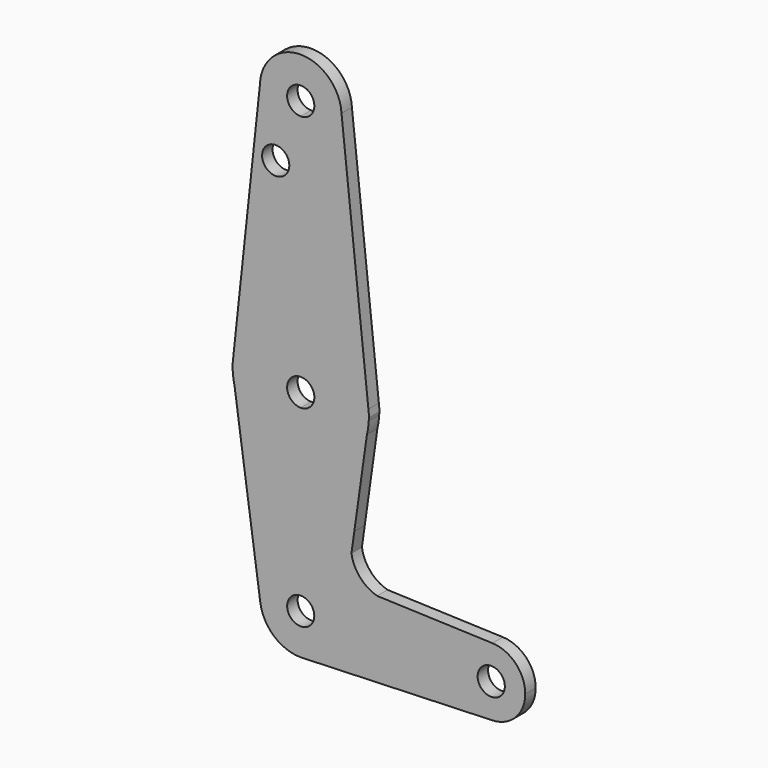
from build123d import *

# Parameters (mm, degrees)
F0_R     = 3.175
F1_DEPTH = 3.048


with BuildPart() as f1:
    # F0 (on Front) → F1 (new body)
    with BuildSketch(Plane.XZ):
        with BuildLine():
            ThreePointArc((-9.521768482, 60.109775595), (-6.822342257, 53.2147835566), (0, 50.3366829186))
            ThreePointArc((0, 50.3366829186), (6.7351920908, 53.1264908278), (9.525, 59.8616829186))
            ThreePointArc((9.525, 59.8616829186), (9.5212685047, 60.1282744826), (9.5100769424, 60.3946571678))
            ThreePointArc((9.5100769424, 60.3946571678), (-0.1425606912, 69.3856160057), (-9.521768482, 60.109775595))
        make_face()
        with BuildLine():
            ThreePointArc((3.175, 59.8616829186), (2.2450640303, 57.6166188883), (0, 56.6866829186))
            ThreePointArc((0, 56.6866829186), (-2.2450640303, 62.1067469488), (3.175, 59.8616829186))
        make_face(mode=Mode.SUBTRACT)
        with BuildLine():
            ThreePointArc((9.525, 59.8616829186), (6.7351920908, 53.1264908278), (0, 50.3366829186))
            Line((0, 50.3366829186), (0, 15.875))
            ThreePointArc((0, 15.875), (10.6120502723, 11.8067783082), (15.7850866092, 1.6872064905))
            Line((15.7850866092, 1.6872064905), (9.5100769424, 60.3946571678))
            ThreePointArc((9.5100769424, 60.3946571678), (9.5212685047, 60.1282744826), (9.525, 59.8616829186))
        make_face()
        with BuildLine():
            Line((0, 15.875), (0, 50.3366829186))
            ThreePointArc((0, 50.3366829186), (-6.822342257, 53.2147835566), (-9.521768482, 60.109775595))
            Line((-9.521768482, 60.109775595), (-15.7845502334, 1.6922171637))
            ThreePointArc((-15.7845502334, 1.6922171637), (-10.6101761891, 11.808462484), (0, 15.875))
        make_face()
        with Locations((-5.8420007117, 45.7200035453)):
            Circle(F0_R, mode=Mode.SUBTRACT)
        with BuildLine():
            ThreePointArc((15.7850866092, 1.6872064905), (10.6120502723, 11.8067783082), (0, 15.875))
            Line((0, 15.875), (0, 3.175))
            ThreePointArc((0, 3.175), (2.2450640303, 2.2450640303), (3.175, 0))
            ThreePointArc((3.175, 0), (2.2450640303, -2.2450640303), (0, -3.175))
            Line((0, -3.175), (0, -15.875))
            ThreePointArc((0, -15.875), (9.8507507088, -12.4490294992), (15.4497368395, -3.6498296658))
            Line((15.4497368395, -3.6498296658), (15.8561487715, -0.7734152414))
            ThreePointArc((15.8561487715, -0.7734152414), (15.8702864931, -0.3868224736), (15.875, 0))
            ThreePointArc((15.875, 0), (15.8525057155, 0.8448002958), (15.7850866092, 1.6872064905))
        make_face()
        with BuildLine():
            Line((0, 3.175), (0, 15.875))
            ThreePointArc((0, 15.875), (-10.6101761891, 11.808462484), (-15.7845502334, 1.6922171637))
            ThreePointArc((-15.7845502334, 1.6922171637), (-15.8683946878, 0.4579028636), (-15.8558659237, -0.7791924092))
            Line((-15.8558659237, -0.7791924092), (-15.4509817985, -3.644555729))
            ThreePointArc((-15.4509817985, -3.644555729), (-9.852875286, -12.4473480549), (0, -15.875))
            Line((0, -15.875), (0, -3.175))
            ThreePointArc((0, -3.175), (-3.175, 0), (0, 3.175))
        make_face()
        with BuildLine():
            Line((15.9654255085, 0), (15.7850866092, 1.6872064905))
            ThreePointArc((15.7850866092, 1.6872064905), (15.8525057155, 0.8448002958), (15.875, 0))
            ThreePointArc((15.875, 0), (15.8702864931, -0.3868224736), (15.8561487715, -0.7734152414))
            Line((15.8561487715, -0.7734152414), (15.9654255085, 0))
        make_face()
        with BuildLine():
            ThreePointArc((-15.8558659237, -0.7791924092), (-15.8683946878, 0.4579028636), (-15.7845502334, 1.6922171637))
            Line((-15.7845502334, 1.6922171637), (-15.9659680649, 0))
            Line((-15.9659680649, 0), (-15.8558659237, -0.7791924092))
        make_face()
        with BuildLine():
            Line((-15.4509817985, -3.644555729), (-15.8558659237, -0.7791924092))
            ThreePointArc((-15.8558659237, -0.7791924092), (-15.7188503178, -2.2211190167), (-15.4509817985, -3.644555729))
        make_face()
        with BuildLine():
            ThreePointArc((15.4497368395, -3.6498296658), (9.8507507088, -12.4490294992), (0, -15.875))
            Line((0, -15.875), (0, -35.3880759952))
            Line((0, -35.3880759952), (0, -41.7517314814))
            ThreePointArc((0, -41.7517314814), (2.2354081434, -42.6776678518), (3.1613445139, -44.9130759952))
            Line((3.1613445139, -44.9130759952), (9.525, -44.9130759952))
            Line((9.525, -44.9130759952), (36.5125, -44.9130759952))
            ThreePointArc((36.5125, -44.9130759952), (38.9380895153, -39.2014432113), (44.7324052746, -36.9806013807))
            Line((44.7324052746, -36.9806013807), (17.816256185, -36.0223553297))
            ThreePointArc((17.816256185, -36.0223553297), (13.8210029222, -33.4966577049), (11.8389221297, -29.2056726364))
            ThreePointArc((11.8389221297, -29.2056726364), (11.8327512172, -26.8281242675), (12.4973838852, -24.545354515))
            Line((12.4973838852, -24.545354515), (15.4497368395, -3.6498296658))
        make_face()
        with BuildLine():
            Line((0.6773435479, -35.4121902093), (0, -35.3880759952))
            ThreePointArc((0, -35.3880759952), (0.3388863295, -35.3941064578), (0.6773435479, -35.4121902093))
        make_face(mode=Mode.SUBTRACT)
        with BuildLine():
            Line((0, -35.3880759952), (0, -15.875))
            ThreePointArc((0, -15.875), (-9.852875286, -12.4473480549), (-15.4509817985, -3.644555729))
            Line((-15.4509817985, -3.644555729), (-9.4313101907, -46.2457474053))
            ThreePointArc((-9.4313101907, -46.2457474053), (-7.1909429208, -38.6667999119), (0, -35.3880759952))
        make_face()
        with BuildLine():
            ThreePointArc((15.4497368395, -3.6498296658), (15.718875865, -2.2209382121), (15.8561487715, -0.7734152414))
            Line((15.8561487715, -0.7734152414), (15.4497368395, -3.6498296658))
        make_face()
        with BuildLine():
            Line((0, -41.7517314814), (0, -35.3880759952))
            ThreePointArc((0, -35.3880759952), (-7.1909429208, -38.6667999119), (-9.4313101907, -46.2457474053))
            ThreePointArc((-9.4313101907, -46.2457474053), (-6.2462760834, -52.104018916), (0, -54.4380759952))
            Line((0, -54.4380759952), (0.6773435479, -54.4139617812))
            ThreePointArc((0.6773435479, -54.4139617812), (6.9705567315, -51.4043750835), (9.525, -44.9130759952))
            Line((9.525, -44.9130759952), (3.1613445139, -44.9130759952))
            ThreePointArc((3.1613445139, -44.9130759952), (-2.2354081434, -47.1484841387), (0, -41.7517314814))
        make_face()
        with BuildLine():
            Line((11.8389221297, -29.2056726364), (12.4973838852, -24.545354515))
            ThreePointArc((12.4973838852, -24.545354515), (11.8327512172, -26.8281242675), (11.8389221297, -29.2056726364))
        make_face()
        with BuildLine():
            Line((0.6773435479, -54.4139617812), (0, -54.4380759952))
            ThreePointArc((0, -54.4380759952), (0.3388863295, -54.4320455327), (0.6773435479, -54.4139617812))
        make_face()
        with BuildLine():
            ThreePointArc((9.525, -44.9130759952), (6.9705567315, -51.4043750835), (0.6773435479, -54.4139617812))
            Line((0.6773435479, -54.4139617812), (44.7324052746, -52.8455506098))
            ThreePointArc((44.7324052746, -52.8455506098), (38.9380895153, -50.6247087792), (36.5125, -44.9130759952))
            Line((36.5125, -44.9130759952), (9.525, -44.9130759952))
        make_face()
        with BuildLine():
            ThreePointArc((36.5125, -44.9130759952), (38.9380895153, -50.6247087792), (44.7324052746, -52.8455506098))
            ThreePointArc((44.7324052746, -52.8455506098), (50.1616327839, -50.42498648), (52.3875, -44.9130759952))
            ThreePointArc((52.3875, -44.9130759952), (50.1616327839, -39.4011655105), (44.7324052746, -36.9806013807))
            ThreePointArc((44.7324052746, -36.9806013807), (38.9380895153, -39.2014432113), (36.5125, -44.9130759952))
        make_face()
        with BuildLine():
            ThreePointArc((47.625, -44.9130759952), (44.45, -48.0880759952), (41.275, -44.9130759952))
            ThreePointArc((41.275, -44.9130759952), (44.45, -41.7380759952), (47.625, -44.9130759952))
        make_face(mode=Mode.SUBTRACT)
    extrude(amount=F1_DEPTH)


solid = f1.part
